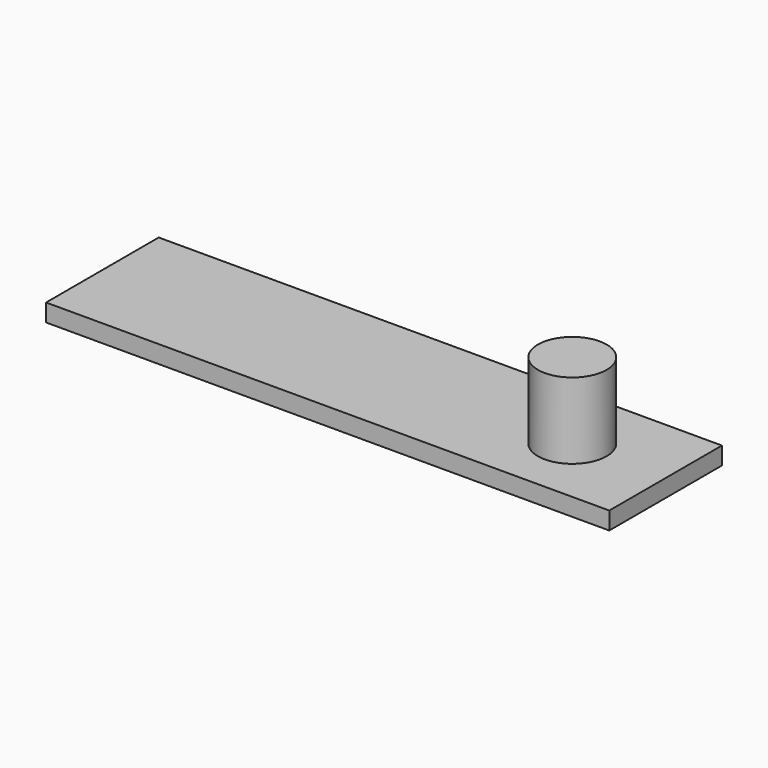
from build123d import *

# Parameters (mm, degrees)
F0_W     = 800
F0_H     = 200
F1_DEPTH = 25
F2_R     = 48.792579
F3_DEPTH = 133


with BuildPart() as f1:
    # F0 (on Top) → F1 (new body)
    with BuildSketch(Plane.XY):
        Rectangle(F0_W, F0_H)
    extrude(amount=F1_DEPTH)

    # F2 (on face) → F3 (join)
    with BuildSketch(Plane(origin=(0, 0, 0), x_dir=(1, 0, 0), z_dir=(0, 0, -1))):
        with Locations((267.433047, 0)):
            Circle(F2_R)
    extrude(amount=-F3_DEPTH)


solid = f1.part
